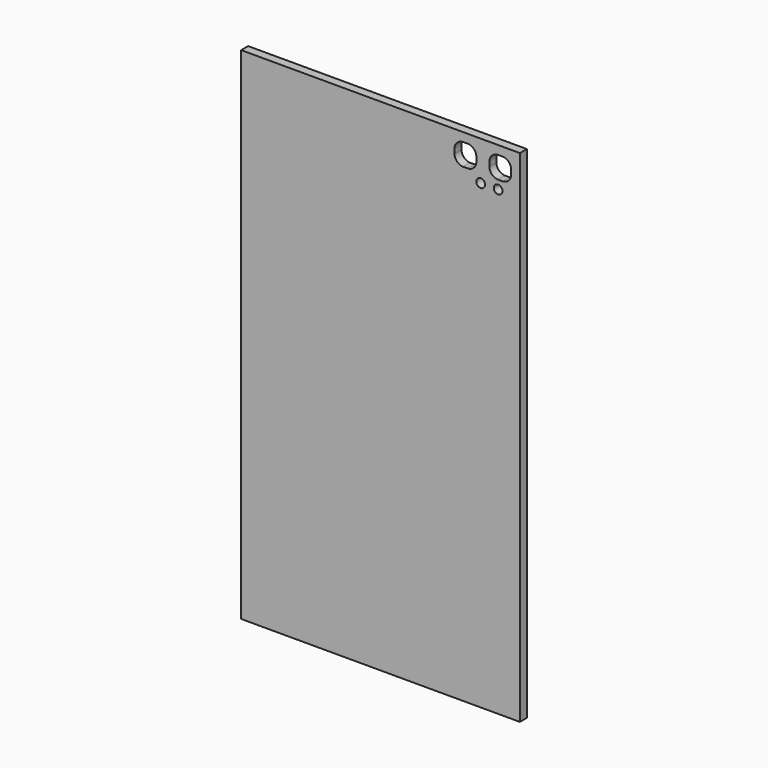
from build123d import *

# Parameters (mm, degrees)
CYLINDER011_R     = 1
CYLINDER011_DEPTH = 10
CYLINDER012_R     = 1
CYLINDER012_DEPTH = 10
BOX014_W          = 5
BOX014_H          = 5
BOX014_DEPTH      = 5
FILLET005_R       = 2
BOX013_W          = 5
BOX013_H          = 5
BOX013_DEPTH      = 5
FILLET004_R       = 2
BOX016_W          = 64
BOX016_H          = 2
BOX016_DEPTH      = 115


with BuildPart() as cilindro011:
    # Cylinder011 → Cylinder011 (new body)
    with BuildSketch(Plane(origin=(59, 6, 106), x_dir=(0, 0, 1), z_dir=(0, 1, 0))):
        Circle(CYLINDER011_R)
    extrude(amount=CYLINDER011_DEPTH)


with BuildPart() as cilindro012:
    # Cylinder012 → Cylinder012 (new body)
    with BuildSketch(Plane(origin=(55, 6, 106), x_dir=(0, 0, 1), z_dir=(0, 1, 0))):
        Circle(CYLINDER012_R)
    extrude(amount=CYLINDER012_DEPTH)


with BuildPart() as fillet005:
    # Box014 → Box014 (new body)
    with BuildSketch(Plane(origin=(57, 6, 108), x_dir=(1, 0, 0), z_dir=(0, 0, 1))):
        with Locations((2.5, 2.5)):
            Rectangle(BOX014_W, BOX014_H)
    extrude(amount=BOX014_DEPTH)

    # Fillet005
    fillet005_edges = [fillet005.edges().sort_by_distance(p)[0] for p in [
        (57, 8.5, 113),
        (57, 8.5, 108),
        (62, 8.5, 113),
        (62, 8.5, 108),
    ]]
    fillet(fillet005_edges, radius=FILLET005_R)


with BuildPart() as fillet005_1:
    # Fillet005 placement: moved
    add(fillet005.part.moved(Location((-8, 0, 0))))


with BuildPart() as fillet004:
    # Box013 → Box013 (new body)
    with BuildSketch(Plane(origin=(57, 6, 108), x_dir=(1, 0, 0), z_dir=(0, 0, 1))):
        with Locations((2.5, 2.5)):
            Rectangle(BOX013_W, BOX013_H)
    extrude(amount=BOX013_DEPTH)

    # Fillet004
    fillet004_edges = [fillet004.edges().sort_by_distance(p)[0] for p in [
        (57, 8.5, 113),
        (57, 8.5, 108),
        (62, 8.5, 113),
        (62, 8.5, 108),
    ]]
    fillet(fillet004_edges, radius=FILLET004_R)


with BuildPart() as back:
    # Box016 → Box016 (new body)
    with BuildSketch(Plane(origin=(0, 7, 0), x_dir=(1, 0, 0), z_dir=(0, 0, 1))):
        with Locations((32, 1)):
            Rectangle(BOX016_W, BOX016_H)
    extrude(amount=BOX016_DEPTH)

    # Cut020: cut Fillet004
    add(fillet004.part, mode=Mode.SUBTRACT)

    # Cut021: cut Fillet005
    add(fillet005_1.part, mode=Mode.SUBTRACT)

    # Cut031: cut Cilindro012
    add(cilindro012.part, mode=Mode.SUBTRACT)

    # Cut032: cut Cilindro011
    add(cilindro011.part, mode=Mode.SUBTRACT)


solid = back.part
